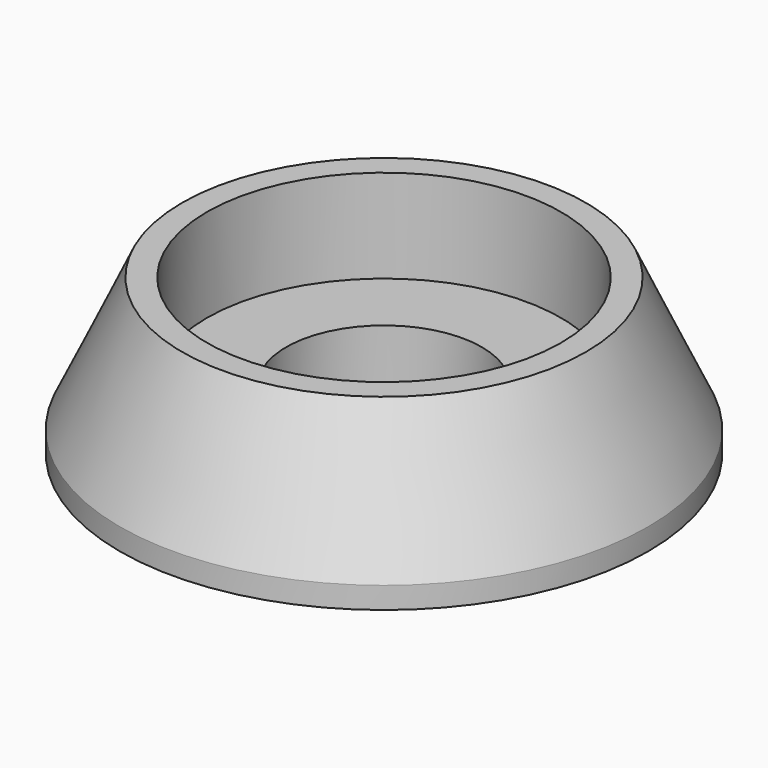
from build123d import *

# Parameters (mm, degrees)
F7_R  = 4.25
F8_R  = 4.25
F10_R = 3.25
F9_R  = 2.85
F11_R = 2.85
F13_R = 1.575
F12_R = 1.575


with BuildPart() as f14:
    # F7 (on Top) → F14 section 0
    with BuildSketch(Plane.XY):
        Circle(F7_R)
    # F8 (on offset) → F14 section 1
    with BuildSketch(Plane.XY.offset(0.35)):
        Circle(F8_R)
    loft()

    # F10 (on offset) → F15 section 0
    with BuildSketch(Plane.XY.offset(2.5)):
        Circle(F10_R)
    # F8 (on offset) → F15 section 1
    with BuildSketch(Plane.XY.offset(0.35)):
        Circle(F8_R)
    loft()

    # F9 (on offset) → F16 section 0
    with BuildSketch(Plane.XY.offset(2.5)):
        Circle(F9_R)
    # F11 (on offset) → F16 section 1
    with BuildSketch(Plane.XY.offset(1)):
        Circle(F11_R)
    loft(mode=Mode.SUBTRACT)

    # F13 (on offset) → F17 section 0
    with BuildSketch(Plane.XY.offset(1)):
        Circle(F13_R)
    # F12 (on Top) → F17 section 1
    with BuildSketch(Plane.XY):
        Circle(F12_R)
    loft(mode=Mode.SUBTRACT)


solid = f14.part
